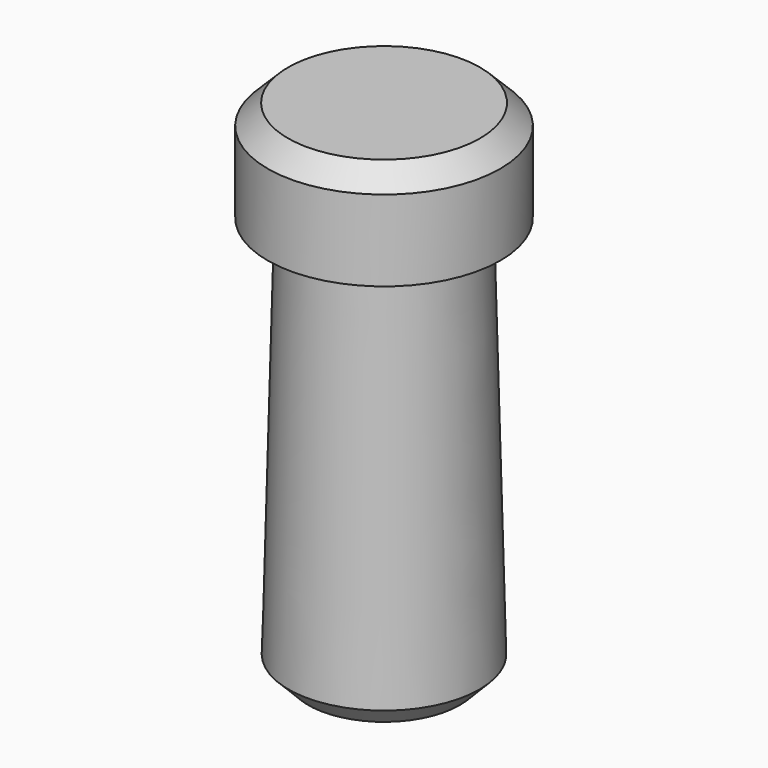
from build123d import *

# Parameters (mm, degrees)
F2_SIZE  = 2
F3_SIZE  = 2
F4_R     = 4
F5_DEPTH = 40


with BuildPart() as f1:
    # F0 (on Front) → F1 (revolve)
    with BuildSketch(Plane.XZ):
        Polygon((0, 40), (0, 0), (9.5, 0), (8.5, 40), (11.5, 40), (11.5, 50), (8.5, 50), (0, 50), align=None)
    revolve(axis=Axis((0, 0, 45), (0, 0, 1)))

    # F2
    f2_edges = [f1.edges().sort_by_distance(p)[0] for p in [
        (-9.5, 0, 0),
    ]]
    chamfer(f2_edges, length=F2_SIZE)

    # F3
    f3_edges = [f1.edges().sort_by_distance(p)[0] for p in [
        (-11.5, 0, 50),
    ]]
    chamfer(f3_edges, length=F3_SIZE)

    # F4 (on face) → F5 (cut, through all)
    with BuildSketch(Plane(origin=(0, 0, 0), x_dir=(1, 0, 0), z_dir=(0, 0, -1))):
        Circle(F4_R)
    extrude(amount=-F5_DEPTH, mode=Mode.SUBTRACT)


solid = f1.part
